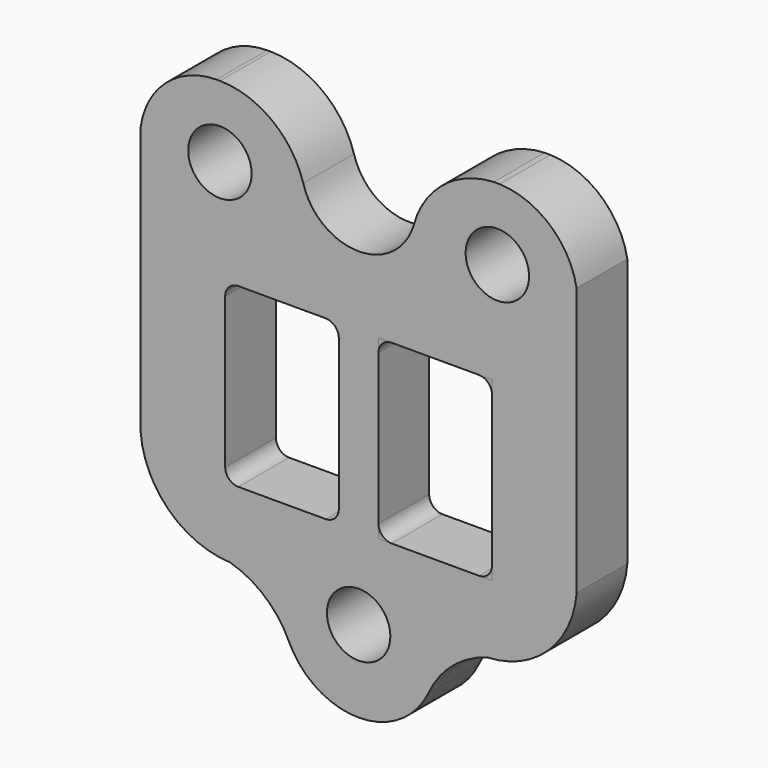
from build123d import *

# Parameters (mm, degrees)
F4_R     = 6
F4_W     = 21.5
F4_H     = 33.45
F6_DEPTH = 12


with BuildPart() as f6:
    # F4 (on face) → F6 (new body)
    with BuildSketch(Plane.XZ):
        with BuildLine():
            ThreePointArc((-41.25, -14.607), (-35.8674022278, -25.9207231501), (-24.337, -30.822))
            ThreePointArc((-24.337, -30.822), (-17.6753424514, -34.4258801724), (-13.1401661783, -40.492))
            ThreePointArc((-13.1401661783, -40.492), (-7.7638565745, -46.5245050412), (-9.43185e-05, -48.765))
            ThreePointArc((-9.43185e-05, -48.765), (7.7636899207, -46.5244912019), (13.14, -40.4919531523))
            ThreePointArc((13.14, -40.4919531523), (17.6755802004, -34.4261199153), (24.3369212747, -30.8216288686))
            ThreePointArc((24.3369212747, -30.8216288686), (35.8680052264, -25.921153722), (41.25, -14.606796205))
            Line((41.25, -14.606796205), (41.25, 36.165))
            ThreePointArc((41.25, 36.165), (36.1986202104, 45.0433137098), (26.686, 48.765))
            Line((26.686, 48.765), (25.5774514153, 48.765))
            ThreePointArc((25.5774514153, 48.765), (16.1031746077, 45.24501144), (10.481, 36.846))
            ThreePointArc((10.481, 36.846), (0.0002400088, 28.896512173), (-10.4806832969, 36.8457846785))
            ThreePointArc((-10.4806832969, 36.8457846785), (-16.3890913636, 45.3926785372), (-26.2169155617, 48.765))
            Line((-26.2169155617, 48.765), (-26.6445539892, 48.765))
            Line((-26.6445539892, 48.765), (-26.6858417388, 48.765))
            Line((-26.6858417388, 48.765), (-26.8851875879, 48.765))
            ThreePointArc((-26.8851875879, 48.765), (-36.4145684312, 45.1407024127), (-41.25, 36.165))
            Line((-41.25, 36.165), (-41.25, -14.607))
        make_face()
        Polygon((-25.25, 15.715), (-22.75, 15.715), (-6.25, 15.715), (-3.75, 15.715), (-3.75, 13.215), (-3.75, -15.235), (-3.75, -17.735), (-6.25, -17.735), (-22.75, -17.735), (-25.25, -17.735), (-25.25, -15.235), (-25.25, 13.215), align=None, mode=Mode.SUBTRACT)
        with Locations((0, -33.285)):
            Circle(F4_R, mode=Mode.SUBTRACT)
        with Locations((14.5, -1.01)):
            Rectangle(F4_W, F4_H, mode=Mode.SUBTRACT)
        with Locations((-26.2487990011, 35.215)):
            Circle(F4_R, mode=Mode.SUBTRACT)
        with Locations((26.2487990011, 35.215)):
            Circle(F4_R, mode=Mode.SUBTRACT)
        with BuildLine():
            Line((-3.75, -17.735), (-3.75, -15.235))
            ThreePointArc((-3.75, -15.235), (-4.4825626253, -17.0024373747), (-6.25, -17.735))
            Line((-6.25, -17.735), (-3.75, -17.735))
        make_face()
        with BuildLine():
            ThreePointArc((-25.25, 13.215), (-24.517766953, 14.982766953), (-22.75, 15.715))
            Line((-22.75, 15.715), (-25.25, 15.715))
            Line((-25.25, 15.715), (-25.25, 13.215))
        make_face()
        with BuildLine():
            ThreePointArc((-22.75, -17.735), (-24.517766953, -17.002766953), (-25.25, -15.235))
            Line((-25.25, -15.235), (-25.25, -17.735))
            Line((-25.25, -17.735), (-22.75, -17.735))
        make_face()
        with BuildLine():
            Line((-3.75, 15.715), (-6.25, 15.715))
            ThreePointArc((-6.25, 15.715), (-4.4825626253, 14.9824373747), (-3.75, 13.215))
            Line((-3.75, 13.215), (-3.75, 15.715))
        make_face()
    extrude(amount=F6_DEPTH)


with BuildPart() as f6b:
    # F5 (on face) → F6, piece 2 (new body)
    with BuildSketch(Plane.XZ):
        with BuildLine():
            ThreePointArc((6.25, -17.735), (4.4825626253, -17.0024373747), (3.75, -15.235))
            Line((3.75, -15.235), (3.75, -17.735))
            Line((3.75, -17.735), (6.25, -17.735))
        make_face()
    extrude(amount=F6_DEPTH)


with BuildPart() as f6c:
    # F5 (on face) → F6, piece 3 (new body)
    with BuildSketch(Plane.XZ):
        with BuildLine():
            ThreePointArc((3.75, 13.215), (4.4825626253, 14.9824373747), (6.25, 15.715))
            Line((6.25, 15.715), (3.75, 15.715))
            Line((3.75, 15.715), (3.75, 13.215))
        make_face()
    extrude(amount=F6_DEPTH)


with BuildPart() as f6d:
    # F5 (on face) → F6, piece 4 (new body)
    with BuildSketch(Plane.XZ):
        with BuildLine():
            Line((25.25, -17.735), (25.25, -15.235))
            ThreePointArc((25.25, -15.235), (24.5174373747, -17.0024373747), (22.75, -17.735))
            Line((22.75, -17.735), (25.25, -17.735))
        make_face()
    extrude(amount=F6_DEPTH)


with BuildPart() as f6e:
    # F5 (on face) → F6, piece 5 (new body)
    with BuildSketch(Plane.XZ):
        with BuildLine():
            Line((25.25, 15.715), (22.75, 15.715))
            ThreePointArc((22.75, 15.715), (24.5174373747, 14.9824373747), (25.25, 13.215))
            Line((25.25, 13.215), (25.25, 15.715))
        make_face()
    extrude(amount=F6_DEPTH)


solid = Compound([f6.part, f6b.part, f6c.part, f6d.part, f6e.part])
